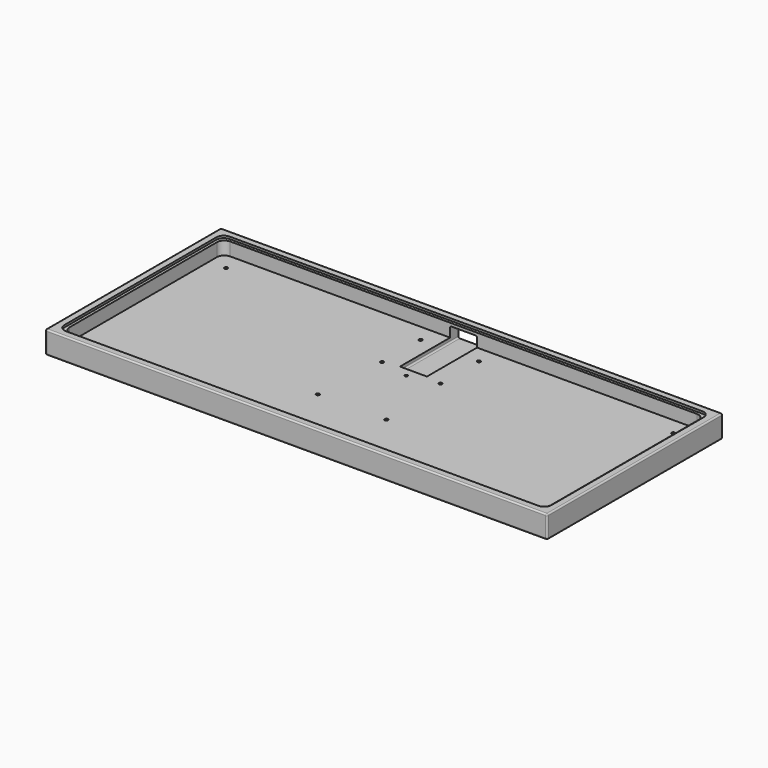
from build123d import *

# Parameters (mm, degrees)
CYLINDER016_R          = 2
CYLINDER016_DEPTH      = 2
CYLINDER012_R          = 2
CYLINDER012_DEPTH      = 2
CYLINDER015_R          = 2
CYLINDER015_DEPTH      = 2
CYLINDER017_R          = 2
CYLINDER017_DEPTH      = 2
CYLINDER013_R          = 2
CYLINDER013_DEPTH      = 2
CYLINDER014_R          = 2
CYLINDER014_DEPTH      = 2
CYLINDER018_R          = 2
CYLINDER018_DEPTH      = 2
CYLINDER019_R          = 2
CYLINDER019_DEPTH      = 2
CYLINDER020_R          = 2
CYLINDER020_DEPTH      = 2
CYLINDER011_R          = 2
CYLINDER011_DEPTH      = 2
BOX003_W               = 18.5
BOX003_H               = 50
BOX003_DEPTH           = 10
CYLINDER010_R          = 1
CYLINDER010_DEPTH      = 5
CYLINDER008_R          = 1.15
CYLINDER008_DEPTH      = 5
CYLINDER006_R          = 1.15
CYLINDER006_DEPTH      = 5
CYLINDER009_R          = 1.15
CYLINDER009_DEPTH      = 5
CYLINDER007_R          = 1.15
CYLINDER007_DEPTH      = 5
CYLINDER001_R          = 1.15
CYLINDER001_DEPTH      = 5
CYLINDER002_R          = 1.15
CYLINDER002_DEPTH      = 5
CYLINDER003_R          = 1.15
CYLINDER003_DEPTH      = 5
CYLINDER004_R          = 1.15
CYLINDER004_DEPTH      = 5
CYLINDER005_R          = 1.15
CYLINDER005_DEPTH      = 5
CYLINDER_R             = 1.15
CYLINDER_DEPTH         = 5
BOX001_W               = 334.204
BOX001_H               = 140.47
BOX001_DEPTH           = 1.5
FILLET001_R            = 5
BOX_W                  = 330.204
BOX_H                  = 136.47
BOX_DEPTH              = 10.5
FILLET_R               = 5
BOX002_W               = 344.204
BOX002_H               = 150.47
BOX002_DEPTH           = 15.5
FILLET002_R            = 1
FILLET003_R            = 1
CUT005_PLACEMENT_ANGLE = 180


with BuildPart() as cylinder016:
    # Cylinder016 → Cylinder016 (new body)
    with BuildSketch(Plane(origin=(23.5, 27.36, 0), x_dir=(1, 0, 0), z_dir=(0, 0, 1))):
        Circle(CYLINDER016_R)
    extrude(amount=CYLINDER016_DEPTH)


with BuildPart() as cylinder012:
    # Cylinder012 → Cylinder012 (new body)
    with BuildSketch(Plane(origin=(-153.35, 56.36, 0), x_dir=(1, 0, 0), z_dir=(0, 0, 1))):
        Circle(CYLINDER012_R)
    extrude(amount=CYLINDER012_DEPTH)


with BuildPart() as cylinder015:
    # Cylinder015 → Cylinder015 (new body)
    with BuildSketch(Plane(origin=(-23.5, 27.36, 0), x_dir=(1, 0, 0), z_dir=(0, 0, 1))):
        Circle(CYLINDER015_R)
    extrude(amount=CYLINDER015_DEPTH)


with BuildPart() as cylinder017:
    # Cylinder017 → Cylinder017 (new body)
    with BuildSketch(Plane(origin=(153.352, -56.36, 0), x_dir=(1, 0, 0), z_dir=(0, 0, 1))):
        Circle(CYLINDER017_R)
    extrude(amount=CYLINDER017_DEPTH)


with BuildPart() as cylinder013:
    # Cylinder013 → Cylinder013 (new body)
    with BuildSketch(Plane(origin=(-20, -23.36, 0), x_dir=(1, 0, 0), z_dir=(0, 0, 1))):
        Circle(CYLINDER013_R)
    extrude(amount=CYLINDER013_DEPTH)


with BuildPart() as cylinder014:
    # Cylinder014 → Cylinder014 (new body)
    with BuildSketch(Plane(origin=(-20, -56.36, 0), x_dir=(1, 0, 0), z_dir=(0, 0, 1))):
        Circle(CYLINDER014_R)
    extrude(amount=CYLINDER014_DEPTH)


with BuildPart() as cylinder018:
    # Cylinder018 → Cylinder018 (new body)
    with BuildSketch(Plane(origin=(153.352, 56.36, 0), x_dir=(1, 0, 0), z_dir=(0, 0, 1))):
        Circle(CYLINDER018_R)
    extrude(amount=CYLINDER018_DEPTH)


with BuildPart() as cylinder019:
    # Cylinder019 → Cylinder019 (new body)
    with BuildSketch(Plane(origin=(20, -23.36, 0), x_dir=(1, 0, 0), z_dir=(0, 0, 1))):
        Circle(CYLINDER019_R)
    extrude(amount=CYLINDER019_DEPTH)


with BuildPart() as cylinder020:
    # Cylinder020 → Cylinder020 (new body)
    with BuildSketch(Plane(origin=(20, -56.36, 0), x_dir=(1, 0, 0), z_dir=(0, 0, 1))):
        Circle(CYLINDER020_R)
    extrude(amount=CYLINDER020_DEPTH)


with BuildPart() as fusion001:
    # Cylinder011 → Cylinder011 (new body)
    with BuildSketch(Plane(origin=(-153.35, -56.36, 0), x_dir=(1, 0, 0), z_dir=(0, 0, 1))):
        Circle(CYLINDER011_R)
    extrude(amount=CYLINDER011_DEPTH)

    # Fusion001: union Cylinder016, Cylinder012, Cylinder015, Cylinder017, Cylinder013, Cylinder014, Cylinder018, Cylinder019, Cylinder020
    add(cylinder016.part)
    add(cylinder012.part)
    add(cylinder015.part)
    add(cylinder017.part)
    add(cylinder013.part)
    add(cylinder014.part)
    add(cylinder018.part)
    add(cylinder019.part)
    add(cylinder020.part)


with BuildPart() as cube003:
    # Box003 → Box003 (new body)
    with BuildSketch(Plane(origin=(-9.25, -75.25, 2), x_dir=(1, 0, 0), z_dir=(0, 0, 1))):
        with Locations((9.25, 25)):
            Rectangle(BOX003_W, BOX003_H)
    extrude(amount=BOX003_DEPTH)


with BuildPart() as cylinder010:
    # Cylinder010 → Cylinder010 (new body)
    with BuildSketch(Plane(origin=(0, -19.14, 0), x_dir=(1, 0, 0), z_dir=(0, 0, 1))):
        Circle(CYLINDER010_R)
    extrude(amount=CYLINDER010_DEPTH)


with BuildPart() as cylinder008:
    # Cylinder008 → Cylinder008 (new body)
    with BuildSketch(Plane(origin=(-23.5, 27.36, 0), x_dir=(1, 0, 0), z_dir=(0, 0, 1))):
        Circle(CYLINDER008_R)
    extrude(amount=CYLINDER008_DEPTH)


with BuildPart() as cylinder006:
    # Cylinder006 → Cylinder006 (new body)
    with BuildSketch(Plane(origin=(-20, -23.36, 0), x_dir=(1, 0, 0), z_dir=(0, 0, 1))):
        Circle(CYLINDER006_R)
    extrude(amount=CYLINDER006_DEPTH)


with BuildPart() as cylinder009:
    # Cylinder009 → Cylinder009 (new body)
    with BuildSketch(Plane(origin=(23.5, 27.36, 0), x_dir=(1, 0, 0), z_dir=(0, 0, 1))):
        Circle(CYLINDER009_R)
    extrude(amount=CYLINDER009_DEPTH)


with BuildPart() as cylinder007:
    # Cylinder007 → Cylinder007 (new body)
    with BuildSketch(Plane(origin=(20, -23.36, 0), x_dir=(1, 0, 0), z_dir=(0, 0, 1))):
        Circle(CYLINDER007_R)
    extrude(amount=CYLINDER007_DEPTH)


with BuildPart() as cylinder001:
    # Cylinder001 → Cylinder001 (new body)
    with BuildSketch(Plane(origin=(153.35, -56.36, 0), x_dir=(1, 0, 0), z_dir=(0, 0, 1))):
        Circle(CYLINDER001_R)
    extrude(amount=CYLINDER001_DEPTH)


with BuildPart() as cylinder002:
    # Cylinder002 → Cylinder002 (new body)
    with BuildSketch(Plane(origin=(-153.35, 56.36, 0), x_dir=(1, 0, 0), z_dir=(0, 0, 1))):
        Circle(CYLINDER002_R)
    extrude(amount=CYLINDER002_DEPTH)


with BuildPart() as cylinder003:
    # Cylinder003 → Cylinder003 (new body)
    with BuildSketch(Plane(origin=(-153.35, -56.36, 0), x_dir=(1, 0, 0), z_dir=(0, 0, 1))):
        Circle(CYLINDER003_R)
    extrude(amount=CYLINDER003_DEPTH)


with BuildPart() as cylinder004:
    # Cylinder004 → Cylinder004 (new body)
    with BuildSketch(Plane(origin=(-20, -56.36, 0), x_dir=(1, 0, 0), z_dir=(0, 0, 1))):
        Circle(CYLINDER004_R)
    extrude(amount=CYLINDER004_DEPTH)


with BuildPart() as cylinder005:
    # Cylinder005 → Cylinder005 (new body)
    with BuildSketch(Plane(origin=(20, -56.36, 0), x_dir=(1, 0, 0), z_dir=(0, 0, 1))):
        Circle(CYLINDER005_R)
    extrude(amount=CYLINDER005_DEPTH)


with BuildPart() as fusion:
    # Cylinder → Cylinder (new body)
    with BuildSketch(Plane(origin=(153.35, 56.36, 0), x_dir=(1, 0, 0), z_dir=(0, 0, 1))):
        Circle(CYLINDER_R)
    extrude(amount=CYLINDER_DEPTH)

    # Fusion: union Cylinder008, Cylinder006, Cylinder009, Cylinder007, Cylinder001, Cylinder002, Cylinder003, Cylinder004, Cylinder005
    add(cylinder008.part)
    add(cylinder006.part)
    add(cylinder009.part)
    add(cylinder007.part)
    add(cylinder001.part)
    add(cylinder002.part)
    add(cylinder003.part)
    add(cylinder004.part)
    add(cylinder005.part)


with BuildPart() as fillet001:
    # Box001 → Box001 (new body)
    with BuildSketch(Plane(origin=(-167.1, -70.23, 14), x_dir=(1, 0, 0), z_dir=(0, 0, 1))):
        with Locations((167.102, 70.235)):
            Rectangle(BOX001_W, BOX001_H)
    extrude(amount=BOX001_DEPTH)

    # Fillet001
    fillet001_edges = [fillet001.edges().sort_by_distance(p)[0] for p in [
        (-167.1, -70.23, 14.75),
        (-167.1, 70.24, 14.75),
        (167.104, -70.23, 14.75),
        (167.104, 70.24, 14.75),
    ]]
    fillet(fillet001_edges, radius=FILLET001_R)


with BuildPart() as fillet_body:
    # Box → Box (new body)
    with BuildSketch(Plane(origin=(-165.102, -68.23, 5), x_dir=(1, 0, 0), z_dir=(0, 0, 1))):
        with Locations((165.102, 68.235)):
            Rectangle(BOX_W, BOX_H)
    extrude(amount=BOX_DEPTH)

    # Fillet
    fillet_edges = [fillet_body.edges().sort_by_distance(p)[0] for p in [
        (-165.102, -68.23, 10.25),
        (-165.102, 68.24, 10.25),
        (165.102, -68.23, 10.25),
        (165.102, 68.24, 10.25),
    ]]
    fillet(fillet_edges, radius=FILLET_R)


with BuildPart() as cut005:
    # Box002 → Box002 (new body)
    with BuildSketch(Plane(origin=(-172.102, -75.235, 0), x_dir=(1, 0, 0), z_dir=(0, 0, 1))):
        with Locations((172.102, 75.235)):
            Rectangle(BOX002_W, BOX002_H)
    extrude(amount=BOX002_DEPTH)

    # Cut: cut Fillet body
    add(fillet_body.part, mode=Mode.SUBTRACT)

    # Cut001: cut Fillet001
    add(fillet001.part, mode=Mode.SUBTRACT)

    # Cut002: cut Fusion
    add(fusion.part, mode=Mode.SUBTRACT)

    # Cut003: cut Cylinder010
    add(cylinder010.part, mode=Mode.SUBTRACT)

    # Cut004: cut Cube003
    add(cube003.part, mode=Mode.SUBTRACT)

    # Fillet002
    fillet002_edges = [cut005.edges().sort_by_distance(p)[0] for p in [
        (-172.102, -75.235, 7.75),
        (-172.102, 0, 15.5),
        (-172.102, 75.235, 7.75),
        (-172.102, 0, 0),
        (0, -75.235, 0),
        (172.102, -75.235, 7.75),
        (0, -75.235, 15.5),
        (0, 75.235, 15.5),
        (172.102, 0, 15.5),
        (0, 75.235, 0),
        (172.102, 75.235, 7.75),
        (172.102, 0, 0),
    ]]
    fillet(fillet002_edges, radius=FILLET002_R)

    # Fillet003
    fillet003_edges = [cut005.edges().sort_by_distance(p)[0] for p in [
        (-9.25, -71.7325, 12),
        (9.25, -71.7325, 12),
        (9.25, -50.2425, 2),
        (-9.25, -50.2425, 2),
    ]]
    fillet(fillet003_edges, radius=FILLET003_R)

    # Cut005: cut Fusion001
    add(fusion001.part, mode=Mode.SUBTRACT)


with BuildPart() as cut005_1:
    # Cut005 placement: moved
    add(cut005.part.rotate(Axis((0, 0, 0), (0, 0, 1)), CUT005_PLACEMENT_ANGLE))


solid = cut005_1.part
